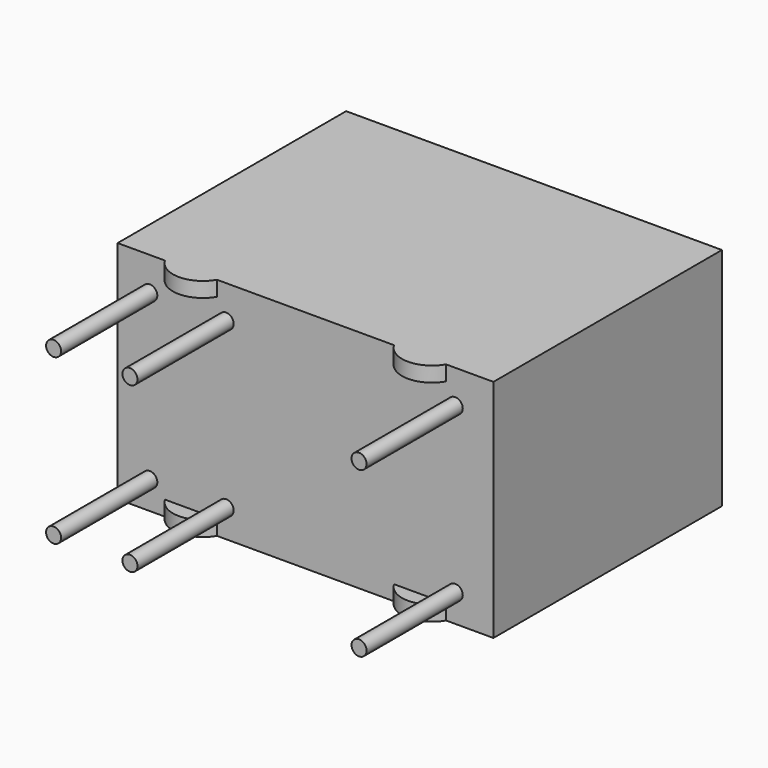
from build123d import *

# Parameters (mm, degrees)
F1_DEPTH      = 3.75
F1_DEPTH_BACK = 3.75
F2_W          = 12.5
F2_H          = 6.5
F3_DEPTH      = 0.501
F4_R          = 0.25
F5_DEPTH      = 4


with BuildPart() as f1:
    # F0 (on Top) → F1 (new body, two sides)
    with BuildSketch(Plane.XY) as f1_sk:
        with BuildLine():
            Line((6.25, 10), (-6.25, 10))
            Line((-6.25, 10), (-6.25, 0.5))
            Line((-6.25, 0.5), (-4.676025, 0.5))
            ThreePointArc((-4.676025, 0.5), (-3.81, 0), (-2.943975, 0.5))
            Line((-2.943975, 0.5), (2.943975, 0.5))
            ThreePointArc((2.943975, 0.5), (3.81, 0), (4.676025, 0.5))
            Line((4.676025, 0.5), (6.25, 0.5))
            Line((6.25, 0.5), (6.25, 10))
        make_face()
    extrude(amount=F1_DEPTH)
    extrude(f1_sk.sketch, amount=-F1_DEPTH_BACK)

    # F2 (on face) → F3 (cut, through all)
    with BuildSketch(Plane.XZ.offset(-0.5)):
        Rectangle(F2_W, F2_H)
    extrude(amount=F3_DEPTH, mode=Mode.SUBTRACT)

    # F4 (on face) → F5 (join)
    with BuildSketch(Plane.XZ.offset(-0.5)):
        with Locations((-5.18, 2.64)):
            Circle(F4_R)
        with Locations((-2.64, 2.64)):
            Circle(F4_R)
        with Locations((4.98, 2.64)):
            Circle(F4_R)
        with Locations((4.98, -2.825889)):
            Circle(F4_R)
        with Locations((-5.18, -2.825889)):
            Circle(F4_R)
        with Locations((-2.64, -2.825889)):
            Circle(F4_R)
    extrude(amount=F5_DEPTH)


solid = f1.part
